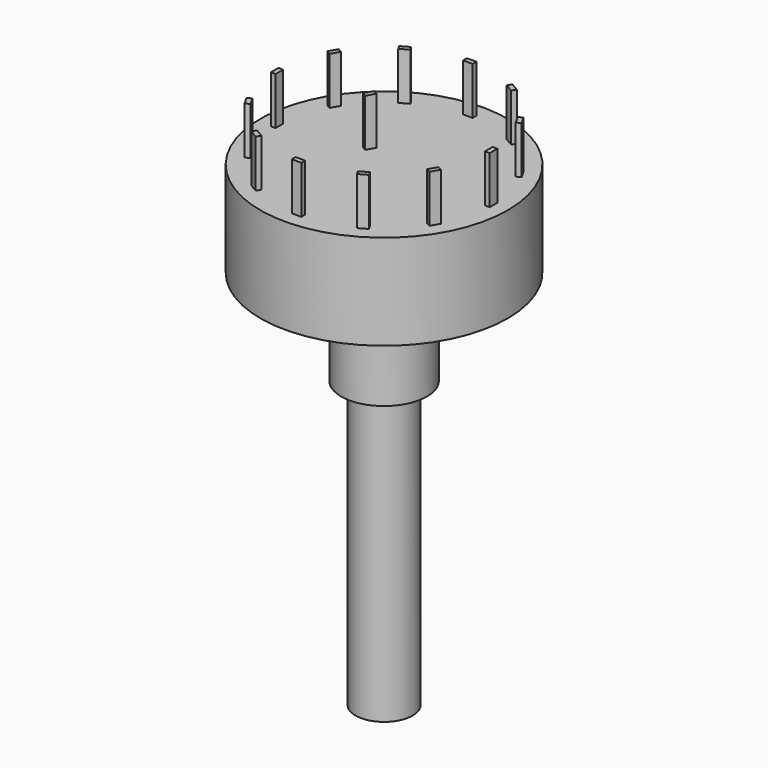
from build123d import *

# Parameters (mm, degrees)
CYLINDER001_R          = 8.5
CYLINDER001_DEPTH      = 2
BOX_W                  = 0.5
BOX_H                  = 1
BOX_DEPTH              = 5
ARRAY_COUNT            = 12
BOX001_W               = 0.5
BOX001_H               = 1
BOX001_DEPTH           = 5
CYLINDER002_R          = 4.5
CYLINDER002_DEPTH      = 8
CYLINDER004_R          = 1.5
CYLINDER004_DEPTH      = 4
BOX002_W               = 1
BOX002_H               = 10
BOX002_DEPTH           = 30
CYLINDER003_R          = 3
CYLINDER003_DEPTH      = 30
CYLINDER_R             = 13
CYLINDER_DEPTH         = 10
FUSION_ROLL_ANGLE      = 180
FUSION_PLACEMENT_ANGLE = 150


with BuildPart() as cylinder001:
    # Cylinder001 → Cylinder001 (new body)
    with BuildSketch(Plane.XY.offset(10)):
        Circle(CYLINDER001_R)
    extrude(amount=CYLINDER001_DEPTH)


with BuildPart() as pin_array:
    # Box → Box (new body)
    with BuildSketch(Plane(origin=(11, -0.5, -5), x_dir=(1, 0, 0), z_dir=(0, 0, 1))):
        with Locations((0.25, 0.5)):
            Rectangle(BOX_W, BOX_H)
    extrude(amount=BOX_DEPTH)

    # Array: Pin array ×12 about axis
    array_axis = Axis((0, 0, 0), (0, 0, 1))


with BuildPart() as pin_array_1:
    add(pin_array.part)
    for i in range(1, ARRAY_COUNT):
        add(pin_array.part.rotate(array_axis, i * 360 / ARRAY_COUNT))


with BuildPart() as pin_central:
    # Box001 → Box001 (new body)
    with BuildSketch(Plane(origin=(3, -0.5, -5), x_dir=(1, 0, 0), z_dir=(0, 0, 1))):
        with Locations((0.25, 0.5)):
            Rectangle(BOX001_W, BOX001_H)
    extrude(amount=BOX001_DEPTH)


with BuildPart() as cylinder002:
    # Cylinder002 → Cylinder002 (new body)
    with BuildSketch(Plane.XY.offset(12)):
        Circle(CYLINDER002_R)
    extrude(amount=CYLINDER002_DEPTH)


with BuildPart() as cylinder004:
    # Cylinder004 → Cylinder004 (new body)
    with BuildSketch(Plane(origin=(9, 0, 10), x_dir=(1, 0, 0), z_dir=(0, 0, 1))):
        Circle(CYLINDER004_R)
    extrude(amount=CYLINDER004_DEPTH)


with BuildPart() as obj1:
    # Box002 → Box002 (new body)
    with BuildSketch(Plane(origin=(2, -5, 20), x_dir=(1, 0, 0), z_dir=(0, 0, 1))):
        with Locations((0.5, 5)):
            Rectangle(BOX002_W, BOX002_H)
    extrude(amount=BOX002_DEPTH)


with BuildPart() as obj2:
    # Cylinder003 → Cylinder003 (new body)
    with BuildSketch(Plane.XY.offset(20)):
        Circle(CYLINDER003_R)
    extrude(amount=CYLINDER003_DEPTH)

    # Cut: cut obj1
    add(obj1.part, mode=Mode.SUBTRACT)


with BuildPart() as fusion:
    # Cylinder → Cylinder (new body)
    with BuildSketch(Plane.XY):
        Circle(CYLINDER_R)
    extrude(amount=CYLINDER_DEPTH)

    # Fusion: union Cylinder001, Pin array, Pin central, Cylinder002, Cylinder004, obj2
    add(cylinder001.part)
    add(pin_array_1.part)
    add(pin_central.part)
    add(cylinder002.part)
    add(cylinder004.part)
    add(obj2.part)


with BuildPart() as fusion_1:
    # Fusion roll: moved
    add(fusion.part.rotate(Axis((0, 0, 0), (1, 0, 0)), FUSION_ROLL_ANGLE))


with BuildPart() as fusion_2:
    # Fusion placement: moved
    add(fusion_1.part.moved(Location((40.992958, 43.010908, 90))).rotate(Axis((40.992958, 43.010908, 90), (0, 0, 1)), FUSION_PLACEMENT_ANGLE))


solid = fusion_2.part
